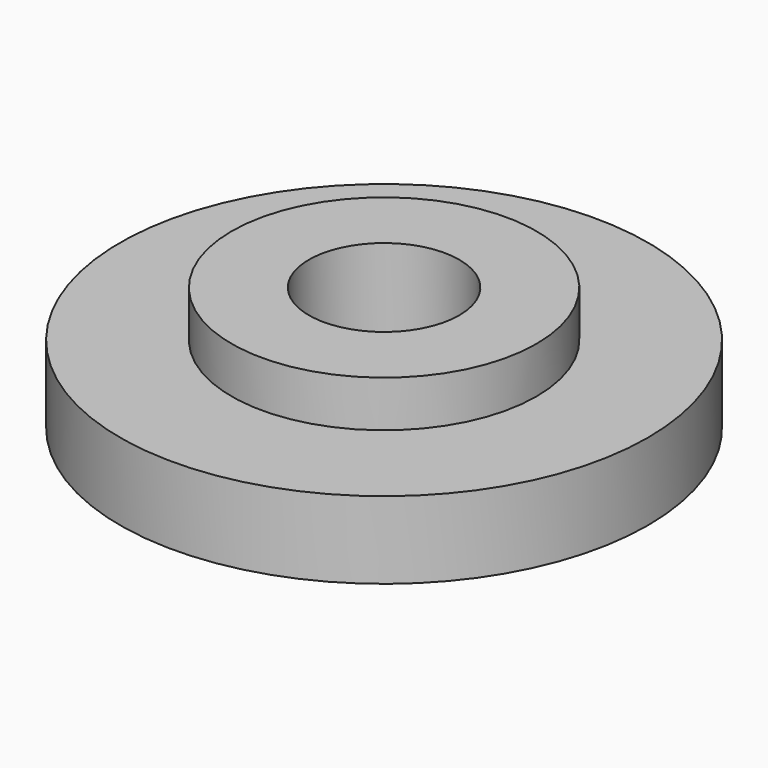
from build123d import *

# Parameters (mm, degrees)
F0_R     = 9.875
F0_R_2   = 4.875
F1_DEPTH = 8
F0_R_3   = 17.0942544143
F2_DEPTH = 5
F3_R     = 4.8718969607
F4_DEPTH = 25


with BuildPart() as f1:
    # F0 (on Top) → F1 (new body)
    with BuildSketch(Plane.XY):
        Circle(F0_R)
        Circle(F0_R_2, mode=Mode.SUBTRACT)
        Circle(F0_R_2)
    extrude(amount=F1_DEPTH)

    # F0 (on Top) → F2 (join)
    with BuildSketch(Plane.XY):
        Circle(F0_R_3)
        Circle(F0_R, mode=Mode.SUBTRACT)
    extrude(amount=F2_DEPTH)

    # F3 (on face) → F4 (cut)
    with BuildSketch(Plane.XY.offset(8)):
        Circle(F3_R)
    extrude(amount=-F4_DEPTH, mode=Mode.SUBTRACT)


solid = f1.part
